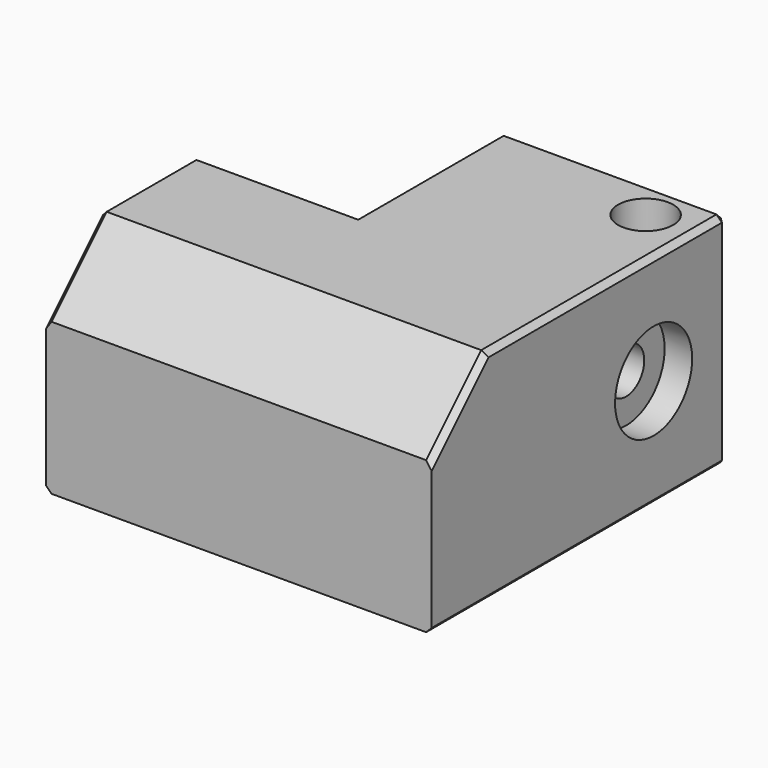
from build123d import *

# Parameters (mm, degrees)
BOX011_W          = 2
BOX011_H          = 2
BOX011_DEPTH      = 12
CHAMFER005_SIZE   = 1
BOX010_W          = 2
BOX010_H          = 2
BOX010_DEPTH      = 12
CHAMFER006_SIZE   = 1
CYLINDER006_R     = 1.4
CYLINDER006_DEPTH = 30
CYLINDER005_R     = 2
CYLINDER005_DEPTH = 4
CYLINDER001_R     = 3.5
CYLINDER001_DEPTH = 2
CYLINDER_R        = 1.65
CYLINDER_DEPTH    = 25
BOX004_W          = 15
BOX004_H          = 13.5
BOX004_DEPTH      = 23
BOX_W             = 28
BOX_H             = 26.75
BOX_DEPTH         = 16
CHAMFER_SIZE      = 5
CHAMFER002_SIZE   = 0.4


with BuildPart() as chamfer005:
    # Box011 → Box011 (new body)
    with BuildSketch(Plane(origin=(-3.25, 21.55, 14), x_dir=(1, 0, 0), z_dir=(0, 0, 1))):
        with Locations((1, 1)):
            Rectangle(BOX011_W, BOX011_H)
    extrude(amount=BOX011_DEPTH)

    # Chamfer005
    chamfer005_edges = [chamfer005.edges().sort_by_distance(p)[0] for p in [
        (-3.25, 22.55, 26),
        (-3.25, 22.55, 14),
    ]]
    chamfer(chamfer005_edges, length=CHAMFER005_SIZE)


with BuildPart() as obj1:
    # Box010 → Box010 (new body)
    with BuildSketch(Plane(origin=(-3.25, 32.75, 14), x_dir=(1, 0, 0), z_dir=(0, 0, 1))):
        with Locations((1, 1)):
            Rectangle(BOX010_W, BOX010_H)
    extrude(amount=BOX010_DEPTH)

    # Chamfer006
    chamfer006_edges = [obj1.edges().sort_by_distance(p)[0] for p in [
        (-3.25, 33.75, 26),
        (-3.25, 33.75, 14),
    ]]
    chamfer(chamfer006_edges, length=CHAMFER006_SIZE)

    # Fusion001: union Chamfer005
    add(chamfer005.part)


with BuildPart() as cylinder006:
    # Cylinder006 → Cylinder006 (new body)
    with BuildSketch(Plane(origin=(10.5, 31.8, 8), x_dir=(1, 0, 0), z_dir=(0, 0, 1))):
        Circle(CYLINDER006_R)
    extrude(amount=CYLINDER006_DEPTH)


with BuildPart() as fusion003003002:
    # Cylinder005 → Cylinder005 (new body)
    with BuildSketch(Plane(origin=(10.5, 31.8, 24), x_dir=(1, 0, 0), z_dir=(0, 0, 1))):
        Circle(CYLINDER005_R)
    extrude(amount=CYLINDER005_DEPTH)

    # Fusion003003002: union Cylinder006
    add(cylinder006.part)


with BuildPart() as cylinder001:
    # Cylinder001 → Cylinder001 (new body)
    with BuildSketch(Plane(origin=(12, 28.15, 20), x_dir=(0, 0, -1), z_dir=(1, 0, 0))):
        Circle(CYLINDER001_R)
    extrude(amount=CYLINDER001_DEPTH)


with BuildPart() as cylinder:
    # Cylinder → Cylinder (new body)
    with BuildSketch(Plane(origin=(-7, 28.15, 20), x_dir=(0, 0, -1), z_dir=(1, 0, 0))):
        Circle(CYLINDER_R)
    extrude(amount=CYLINDER_DEPTH)


with BuildPart() as cube004:
    # Box004 → Box004 (new body)
    with BuildSketch(Plane(origin=(-17.25, 21.55, 9), x_dir=(1, 0, 0), z_dir=(0, 0, 1))):
        with Locations((7.5, 6.75)):
            Rectangle(BOX004_W, BOX004_H)
    extrude(amount=BOX004_DEPTH)


with BuildPart() as fusion003003002002:
    # Box → Box (new body)
    with BuildSketch(Plane(origin=(-14, 8, 12), x_dir=(1, 0, 0), z_dir=(0, 0, 1))):
        with Locations((14, 13.375)):
            Rectangle(BOX_W, BOX_H)
    extrude(amount=BOX_DEPTH)

    # Chamfer
    chamfer_edges = [fusion003003002002.edges().sort_by_distance(p)[0] for p in [
        (0, 8, 28),
    ]]
    chamfer(chamfer_edges, length=CHAMFER_SIZE)

    # Cut003: cut Cube004
    add(cube004.part, mode=Mode.SUBTRACT)

    # Chamfer002
    chamfer002_edges = [fusion003003002002.edges().sort_by_distance(p)[0] for p in [
        (-14, 10.5, 25.5),
        (-14, 17.275, 28),
        (-14, 21.55, 20),
        (-14, 14.775, 12),
        (14, 10.5, 25.5),
        (-8.125, 21.55, 28),
        (-2.25, 28.15, 28),
        (5.875, 34.75, 28),
        (14, 23.875, 28),
        (-8.125, 21.55, 12),
        (-2.25, 28.15, 12),
        (14, 21.375, 12),
        (14, 34.75, 20),
        (-2.25, 34.75, 20),
    ]]
    chamfer(chamfer002_edges, length=CHAMFER002_SIZE)

    # Cut005: cut Cylinder
    add(cylinder.part, mode=Mode.SUBTRACT)

    # Cut016: cut Cylinder001
    add(cylinder001.part, mode=Mode.SUBTRACT)

    # Cut018: cut Fusion003003002
    add(fusion003003002.part, mode=Mode.SUBTRACT)

    # Fusion003003002002: union obj1
    add(obj1.part)


solid = fusion003003002002.part
